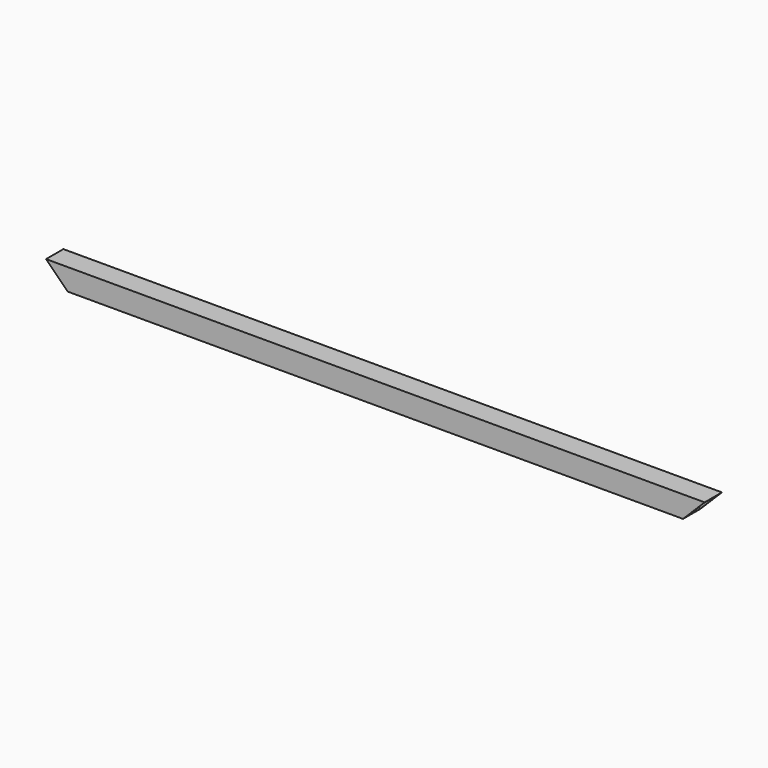
from build123d import *

# Parameters (mm, degrees)
F0_W     = 25
F0_H     = 25
F1_DEPTH = 762
F3_DEPTH = 12.5
F4_W     = 22
F4_H     = 22
F5_DEPTH = 762.001


with BuildPart() as f1:
    # F0 (on Right) → F1 (new body)
    with BuildSketch(Plane.YZ):
        Rectangle(F0_W, F0_H)
    extrude(amount=F1_DEPTH)

    # F2 (on Front) → F3 (cut, symmetric)
    with BuildSketch(Plane.XZ):
        Polygon((35.352029, -22.745401), (0, 12.606628), (0, -26.686775), align=None)
        Polygon((762, -22.745401), (762, 12.5), (732.63703, -16.86297), align=None)
    extrude(amount=F3_DEPTH, both=True, mode=Mode.SUBTRACT)

    # F4 (on Right) → F5 (cut, through all)
    with BuildSketch(Plane.YZ):
        Rectangle(F4_W, F4_H)
    extrude(amount=F5_DEPTH, mode=Mode.SUBTRACT)


solid = f1.part
